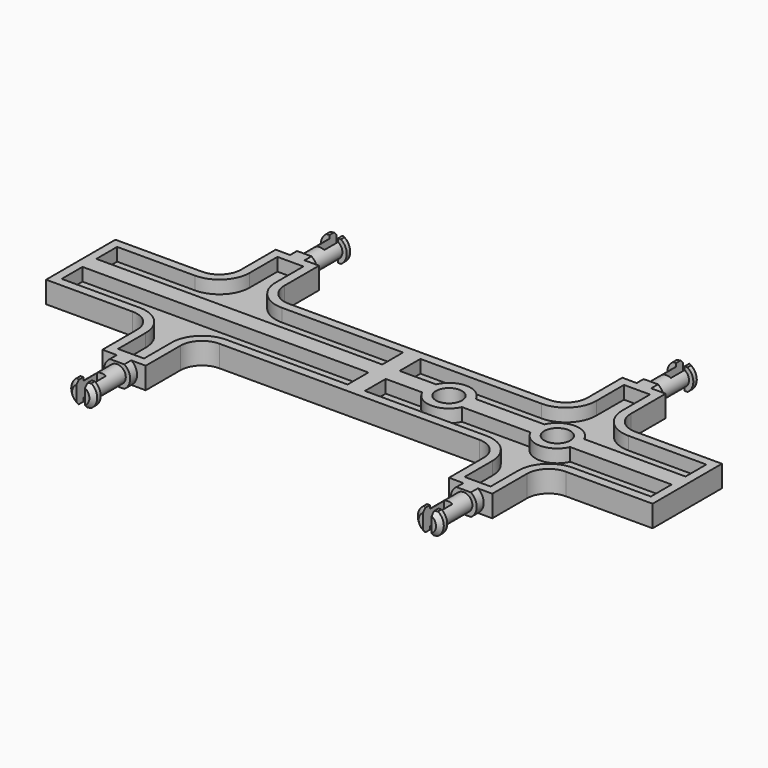
from build123d import *

# Parameters (mm, degrees)
F1_DEPTH  = 2.5
F2_T      = -2
F5_SIZE   = 1
F6_W      = 101.6216283701
F6_H      = 5
F7_DEPTH  = 37.501
F8_W      = 2
F8_H      = 12.9450548419
F9_DEPTH  = 6
F12_R     = 5
F13_DEPTH = 5
F15_D     = 6
F19_ANGLE = 90
F21_ANGLE = 180


with BuildPart() as f1:
    # F0 (on Front) → F1 (new body, symmetric)
    with BuildSketch(Plane.XZ):
        with BuildLine():
            Line((-42.8484990943, 10), (-42.8484990943, 0))
            Line((-42.8484990943, 0), (27.1515009057, 0))
            Line((27.1515009057, 0), (27.1515009057, 10))
            Line((27.1515009057, 10), (7.1515009057, 10))
            ThreePointArc((7.1515009057, 10), (3.6159669998, 11.4644660941), (2.1515009057, 15))
            Line((2.1515009057, 15), (2.1515009057, 25))
            Line((2.1515009057, 25), (-7.8484990943, 25))
            Line((-7.8484990943, 25), (-7.8484990943, 15))
            ThreePointArc((-7.8484990943, 15), (-9.3129651884, 11.4644660941), (-12.8484990943, 10))
            Line((-12.8484990943, 10), (-42.8484990943, 10))
        make_face()
    extrude(amount=F1_DEPTH, both=True)

    # F2
    f2_openings = [f1.faces().sort_by_distance(p)[0] for p in [
        (-6.914814, -2.5, 7.254637),
    ]]
    offset(amount=F2_T, openings=f2_openings)

    # F3 (on Front) → F4 (revolve)
    with BuildSketch(Plane.XZ):
        Polygon((-2.8484990943, 37.5), (-5.8484990943, 37.5), (-5.8484990943, 35.5), (-4.8484990943, 35.5), (-4.8484990943, 27), (-5.8484990943, 27), (-5.8484990943, 25), (-2.8484990943, 25), align=None)
    revolve(axis=Axis((-2.8484990943, 0, 31.25), (0, 0, -1)))

    # F5
    f5_edges = [f1.edges().sort_by_distance(p)[0] for p in [
        (0.151501, 0, 37.5),
    ]]
    chamfer(f5_edges, length=F5_SIZE)

    # F6 (on face) → F7 (intersect, through all)
    with BuildSketch(Plane.XY.offset(37.5)):
        with Locations((-4.4455640018, 0)):
            Rectangle(F6_W, F6_H)
    extrude(amount=-F7_DEPTH, mode=Mode.INTERSECT)

    # F8 (on face) → F9 (cut)
    with BuildSketch(Plane.XY.offset(37.5)):
        with Locations((-2.8484990943, -0.3656100016)):
            Rectangle(F8_W, F8_H)
    extrude(amount=-F9_DEPTH, mode=Mode.SUBTRACT)

    # F10: F1 across plane


with BuildPart() as f1_1:
    add(f1.part)
    add(f1.part.mirror(Plane.XY))

    # F11: F1 across face


with BuildPart() as f1_2:
    add(f1_1.part)
    add(f1_1.part.mirror(Plane(origin=(-42.8484990943, 0, 0), x_dir=(0, -1, 0), z_dir=(-1, 0, 0))))

    # F12 (on face) → F13 (join, through all)
    with BuildSketch(Plane.XZ.offset(2.5)):
        with Locations((-2.8484990943, 0)):
            Circle(F12_R)
        with Locations((-27.8484990943, 0)):
            Circle(F12_R)
    extrude(amount=-F13_DEPTH)

    # F15 (through all)
    with Locations(Plane.XZ.offset(2.5)):
        with Locations((-27.8484990943, 0), (-2.8484990943, 0)):
            Hole(F15_D / 2)


with BuildPart() as f1_3:
    # F16: moved
    add(f1_2.part.moved(Location((40, 0, 0))))


with BuildPart() as f1_4:
    # F17: moved
    add(f1_3.part.moved(Location((5, 0, 0))))


with BuildPart() as f1_5:
    # F18: moved
    add(f1_4.part.moved(Location((-2.5, 0, 0))))


with BuildPart() as f1_6:
    # F19: moved
    add(f1_5.part.rotate(Axis((59.6515009057, 2.5, 10), (1, 0, 0)), F19_ANGLE))


with BuildPart() as f1_7:
    # F20: moved
    add(f1_6.part.moved(Location((0, 0, -7.5))))


with BuildPart() as f1_8:
    # F21: moved
    add(f1_7.part.rotate(Axis((-60.3484990943, 2.5, -2.5), (-1, 0, 0)), F21_ANGLE))


with BuildPart() as f1_9:
    # F22: moved
    add(f1_8.part.moved(Location((0, 0, 5))))


solid = f1_9.part
